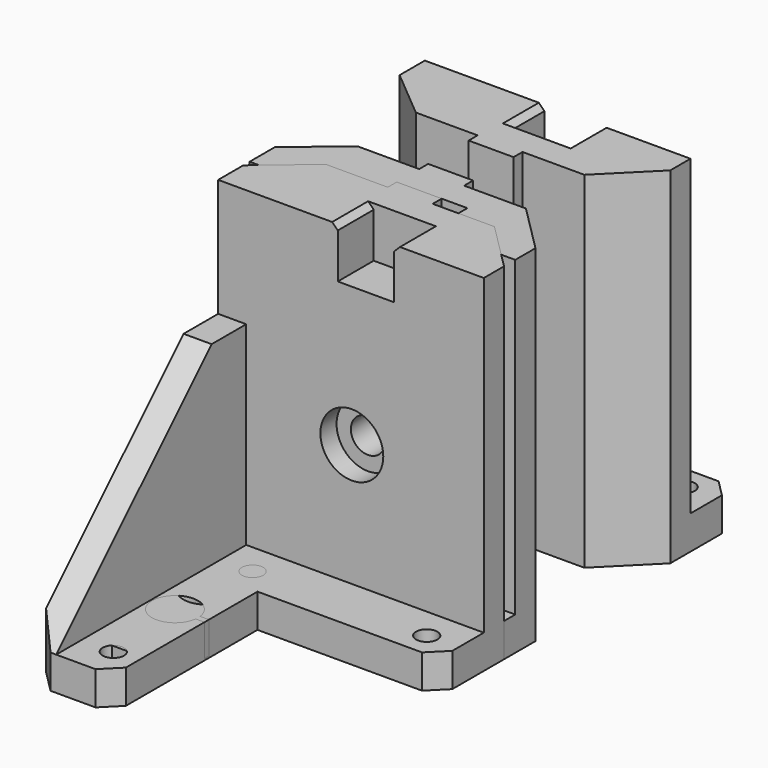
from build123d import *

# Parameters (mm, degrees)
CYLINDER008_R           = 1.9
CYLINDER008_DEPTH       = 20
CYLINDER009_R           = 1.9
CYLINDER009_DEPTH       = 20
CYLINDER007_R           = 1.9
CYLINDER007_DEPTH       = 20
CYLINDER010_R           = 5.6
CYLINDER010_DEPTH       = 20
CYLINDER011_R           = 3.05
CYLINDER011_DEPTH       = 20
CYLINDER006_R           = 4.1
CYLINDER006_DEPTH       = 20
CUBE020_W               = 10
CUBE020_H               = 1
CUBE020_DEPTH           = 10
CUBE021_W               = 30
CUBE021_H               = 15
CUBE021_DEPTH           = 63.6
CUBE021_PLACEMENT_ANGLE = 140
CUBE022_W               = 15
CUBE022_H               = 15
CUBE022_DEPTH           = 63.6
CUBE022_PLACEMENT_ANGLE = 45
CUBE023_W               = 10
CUBE023_H               = 10
CUBE023_DEPTH           = 63.6
CUBE023_PLACEMENT_ANGLE = 45
CUBE024_W               = 10
CUBE024_H               = 10
CUBE024_DEPTH           = 63.6
CUBE024_PLACEMENT_ANGLE = 45
CUBE025_W               = 20
CUBE025_H               = 10
CUBE025_DEPTH           = 63.6
CUBE025_PLACEMENT_ANGLE = 45
CUBE026_W               = 10
CUBE026_H               = 70
CUBE026_DEPTH           = 50
CUBE026_PLACEMENT_ANGLE = 45
CUBE027_W               = 10
CUBE027_H               = 20
CUBE027_DEPTH           = 30
CUBE028_W               = 5
CUBE028_H               = 30
CUBE028_DEPTH           = 5
CUBE028_PLACEMENT_ANGLE = 45
CUBE029_W               = 5
CUBE029_H               = 30
CUBE029_DEPTH           = 5
CUBE029_PLACEMENT_ANGLE = 45
CUBE019_W               = 50
CUBE019_H               = 50
CUBE019_DEPTH           = 10
CUBE016_W               = 47.3
CUBE016_H               = 13
CUBE016_DEPTH           = 61.6
CUBE017_W               = 5
CUBE017_H               = 55.3
CUBE017_DEPTH           = 40.6
CUBE018_W               = 8
CUBE018_H               = 3
CUBE018_DEPTH           = 61.6
CUBE015_W               = 47.3
CUBE015_H               = 55.3
CUBE015_DEPTH           = 6
CYLINDER002_R           = 1.9
CYLINDER002_DEPTH       = 20
CYLINDER003_R           = 1.9
CYLINDER003_DEPTH       = 20
CYLINDER001_R           = 1.9
CYLINDER001_DEPTH       = 20
CYLINDER004_R           = 5.6
CYLINDER004_DEPTH       = 20
CYLINDER005_R           = 3.05
CYLINDER005_DEPTH       = 20
CYLINDER_R              = 4.1
CYLINDER_DEPTH          = 20
CUBE005_W               = 10
CUBE005_H               = 1
CUBE005_DEPTH           = 10
CUBE006_W               = 30
CUBE006_H               = 15
CUBE006_DEPTH           = 63.6
CUBE006_PLACEMENT_ANGLE = 140
CUBE007_W               = 15
CUBE007_H               = 15
CUBE007_DEPTH           = 63.6
CUBE007_PLACEMENT_ANGLE = 45
CUBE008_W               = 10
CUBE008_H               = 10
CUBE008_DEPTH           = 63.6
CUBE008_PLACEMENT_ANGLE = 45
CUBE009_W               = 10
CUBE009_H               = 10
CUBE009_DEPTH           = 63.6
CUBE009_PLACEMENT_ANGLE = 45
CUBE010_W               = 20
CUBE010_H               = 10
CUBE010_DEPTH           = 63.6
CUBE010_PLACEMENT_ANGLE = 45
CUBE011_W               = 10
CUBE011_H               = 70
CUBE011_DEPTH           = 50
CUBE011_PLACEMENT_ANGLE = 45
CUBE012_W               = 10
CUBE012_H               = 20
CUBE012_DEPTH           = 30
CUBE013_W               = 5
CUBE013_H               = 30
CUBE013_DEPTH           = 5
CUBE013_PLACEMENT_ANGLE = 45
CUBE014_W               = 5
CUBE014_H               = 30
CUBE014_DEPTH           = 5
CUBE014_PLACEMENT_ANGLE = 45
CUBE004_W               = 50
CUBE004_H               = 50
CUBE004_DEPTH           = 10
CUBE001_W               = 47.3
CUBE001_H               = 13
CUBE001_DEPTH           = 61.6
CUBE002_W               = 5
CUBE002_H               = 55.3
CUBE002_DEPTH           = 40.6
CUBE003_W               = 8
CUBE003_H               = 3
CUBE003_DEPTH           = 61.6
CUBE_W                  = 47.3
CUBE_H                  = 55.3
CUBE_DEPTH              = 6
SKETCH_W                = 8
SKETCH_H                = 9
POCKET_DEPTH            = 2
CHAMFER_SIZE            = 1.9


with BuildPart() as cylinder008:
    # cylinder008 → cylinder008 (new body)
    with BuildSketch(Plane(origin=(31, 0, 0), x_dir=(1, 0, 0), z_dir=(0, 0, 1))):
        Circle(CYLINDER008_R)
    extrude(amount=CYLINDER008_DEPTH)


with BuildPart() as cylinder009:
    # cylinder009 → cylinder009 (new body)
    with BuildSketch(Plane(origin=(0, 31, 0), x_dir=(1, 0, 0), z_dir=(0, 0, 1))):
        Circle(CYLINDER009_R)
    extrude(amount=CYLINDER009_DEPTH)


with BuildPart() as matrix_union001:
    # cylinder007 → cylinder007 (new body)
    with BuildSketch(Plane.XY):
        Circle(CYLINDER007_R)
    extrude(amount=CYLINDER007_DEPTH)

    # Matrix_Union001: union cylinder008, cylinder009
    add(cylinder008.part)
    add(cylinder009.part)


with BuildPart() as matrix_union001_1:
    # Matrix_Union001 placement: moved
    add(matrix_union001.part.moved(Location((10.65, 18.65, -0.1))))


with BuildPart() as cylinder010:
    # cylinder010 → cylinder010 (new body)
    with BuildSketch(Plane(origin=(23.8, 9.4, 27.8), x_dir=(1, 0, 0), z_dir=(0, 1, 0))):
        Circle(CYLINDER010_R)
    extrude(amount=CYLINDER010_DEPTH)


with BuildPart() as cylinder011:
    # cylinder011 → cylinder011 (new body)
    with BuildSketch(Plane(origin=(23.8, -3, 27.8), x_dir=(1, 0, 0), z_dir=(0, 1, 0))):
        Circle(CYLINDER011_R)
    extrude(amount=CYLINDER011_DEPTH)


with BuildPart() as group005:
    # cylinder006 → cylinder006 (new body)
    with BuildSketch(Plane(origin=(9.35, 34.3, -0.1), x_dir=(1, 0, 0), z_dir=(0, 0, 1))):
        Circle(CYLINDER006_R)
    extrude(amount=CYLINDER006_DEPTH)

    # Group005: union Matrix_Union001, cylinder010, cylinder011
    add(matrix_union001_1.part)
    add(cylinder010.part)
    add(cylinder011.part)


with BuildPart() as cube020:
    # cube020 → cube020 (new body)
    with BuildSketch(Plane(origin=(7.5, 33.8, 0.3), x_dir=(1, 0, 0), z_dir=(0, 0, 1))):
        with Locations((5, 0.5)):
            Rectangle(CUBE020_W, CUBE020_H)
    extrude(amount=CUBE020_DEPTH)


with BuildPart() as cube021:
    # cube021 → cube021 (new body)
    with BuildSketch(Plane.XY):
        with Locations((15, 7.5)):
            Rectangle(CUBE021_W, CUBE021_H)
    extrude(amount=CUBE021_DEPTH)


with BuildPart() as cube021_1:
    # cube021 placement: moved
    add(cube021.part.moved(Location((8.8, 0, -0.1))).rotate(Axis((8.8, 0, -0.1), (0, 0, 1)), CUBE021_PLACEMENT_ANGLE))


with BuildPart() as cube022:
    # cube022 → cube022 (new body)
    with BuildSketch(Plane.XY):
        with Locations((7.5, 7.5)):
            Rectangle(CUBE022_W, CUBE022_H)
    extrude(amount=CUBE022_DEPTH)


with BuildPart() as cube022_1:
    # cube022 placement: moved
    add(cube022.part.moved(Location((38.8, 0, -0.1))).rotate(Axis((38.8, 0, -0.1), (0, 0, -1)), CUBE022_PLACEMENT_ANGLE))


with BuildPart() as cube023:
    # cube023 → cube023 (new body)
    with BuildSketch(Plane.XY):
        with Locations((5, 5)):
            Rectangle(CUBE023_W, CUBE023_H)
    extrude(amount=CUBE023_DEPTH)


with BuildPart() as cube023_1:
    # cube023 placement: moved
    add(cube023.part.moved(Location((48.3, 19, -0.1))).rotate(Axis((48.3, 19, -0.1), (0, 0, 1)), CUBE023_PLACEMENT_ANGLE))


with BuildPart() as cube024:
    # cube024 → cube024 (new body)
    with BuildSketch(Plane.XY):
        with Locations((5, 5)):
            Rectangle(CUBE024_W, CUBE024_H)
    extrude(amount=CUBE024_DEPTH)


with BuildPart() as cube024_1:
    # cube024 placement: moved
    add(cube024.part.moved(Location((15, 52.3, -0.1))).rotate(Axis((15, 52.3, -0.1), (0, 0, 1)), CUBE024_PLACEMENT_ANGLE))


with BuildPart() as cube025:
    # cube025 → cube025 (new body)
    with BuildSketch(Plane.XY):
        with Locations((10, 5)):
            Rectangle(CUBE025_W, CUBE025_H)
    extrude(amount=CUBE025_DEPTH)


with BuildPart() as cube025_1:
    # cube025 placement: moved
    add(cube025.part.moved(Location((-5, 46.3, -0.1))).rotate(Axis((-5, 46.3, -0.1), (0, 0, 1)), CUBE025_PLACEMENT_ANGLE))


with BuildPart() as cube026:
    # cube026 → cube026 (new body)
    with BuildSketch(Plane.XY):
        with Locations((5, 35)):
            Rectangle(CUBE026_W, CUBE026_H)
    extrude(amount=CUBE026_DEPTH)


with BuildPart() as cube026_1:
    # cube026 placement: moved
    add(cube026.part.moved(Location((-0.1, 55.3, 6))).rotate(Axis((-0.1, 55.3, 6), (1, 0, 0)), CUBE026_PLACEMENT_ANGLE))


with BuildPart() as cube027:
    # cube027 → cube027 (new body)
    with BuildSketch(Plane(origin=(21.3, 5, 52.6), x_dir=(1, 0, 0), z_dir=(0, 0, 1))):
        with Locations((5, 10)):
            Rectangle(CUBE027_W, CUBE027_H)
    extrude(amount=CUBE027_DEPTH)


with BuildPart() as cube028:
    # cube028 → cube028 (new body)
    with BuildSketch(Plane.XY):
        with Locations((2.5, 15)):
            Rectangle(CUBE028_W, CUBE028_H)
    extrude(amount=CUBE028_DEPTH)


with BuildPart() as cube028_1:
    # cube028 placement: moved
    add(cube028.part.moved(Location((26.3, 5, 62.6))).rotate(Axis((26.3, 5, 62.6), (0, 1, 0)), CUBE028_PLACEMENT_ANGLE))


with BuildPart() as cube029:
    # cube029 → cube029 (new body)
    with BuildSketch(Plane.XY):
        with Locations((2.5, 15)):
            Rectangle(CUBE029_W, CUBE029_H)
    extrude(amount=CUBE029_DEPTH)


with BuildPart() as cube029_1:
    # cube029 placement: moved
    add(cube029.part.moved(Location((19.3, 5, 62.6))).rotate(Axis((19.3, 5, 62.6), (0, 1, 0)), CUBE029_PLACEMENT_ANGLE))


with BuildPart() as union001:
    # cube019 → cube019 (new body)
    with BuildSketch(Plane(origin=(15, 23, -0.1), x_dir=(1, 0, 0), z_dir=(0, 0, 1))):
        with Locations((25, 25)):
            Rectangle(CUBE019_W, CUBE019_H)
    extrude(amount=CUBE019_DEPTH)

    # Group004: union cube020, cube021, cube022, cube023, cube024, cube025, cube026, cube027, cube028, cube029
    add(cube020.part)
    add(cube021_1.part)
    add(cube022_1.part)
    add(cube023_1.part)
    add(cube024_1.part)
    add(cube025_1.part)
    add(cube026_1.part)
    add(cube027.part)
    add(cube028_1.part)
    add(cube029_1.part)

    # union001: union Group005
    add(group005.part)


with BuildPart() as cube016:
    # cube016 → cube016 (new body)
    with BuildSketch(Plane.XY):
        with Locations((23.65, 6.5)):
            Rectangle(CUBE016_W, CUBE016_H)
    extrude(amount=CUBE016_DEPTH)


with BuildPart() as cube017:
    # cube017 → cube017 (new body)
    with BuildSketch(Plane.XY):
        with Locations((2.5, 27.65)):
            Rectangle(CUBE017_W, CUBE017_H)
    extrude(amount=CUBE017_DEPTH)


with BuildPart() as cube018:
    # cube018 → cube018 (new body)
    with BuildSketch(Plane(origin=(19.8, -2, 0), x_dir=(1, 0, 0), z_dir=(0, 0, 1))):
        with Locations((4, 1.5)):
            Rectangle(CUBE018_W, CUBE018_H)
    extrude(amount=CUBE018_DEPTH)


with BuildPart() as difference001:
    # cube015 → cube015 (new body)
    with BuildSketch(Plane.XY):
        with Locations((23.65, 27.65)):
            Rectangle(CUBE015_W, CUBE015_H)
    extrude(amount=CUBE015_DEPTH)

    # Group003: union cube016, cube017, cube018
    add(cube016.part)
    add(cube017.part)
    add(cube018.part)

    # difference001: cut union001
    add(union001.part, mode=Mode.SUBTRACT)


with BuildPart() as mirrored_difference001:
    # mirr_difference001: instance of difference001
    add(difference001.part.mirror(Plane(origin=(0, 0, 0), x_dir=(1, 0, 0), z_dir=(0, 1, 0))))


with BuildPart() as mirrored_difference001_1:
    # mirr_difference001 placement: moved
    add(mirrored_difference001.part.moved(Location((0, -13, 0))))


with BuildPart() as cylinder002:
    # cylinder002 → cylinder002 (new body)
    with BuildSketch(Plane(origin=(31, 0, 0), x_dir=(1, 0, 0), z_dir=(0, 0, 1))):
        Circle(CYLINDER002_R)
    extrude(amount=CYLINDER002_DEPTH)


with BuildPart() as cylinder003:
    # cylinder003 → cylinder003 (new body)
    with BuildSketch(Plane(origin=(0, 31, 0), x_dir=(1, 0, 0), z_dir=(0, 0, 1))):
        Circle(CYLINDER003_R)
    extrude(amount=CYLINDER003_DEPTH)


with BuildPart() as matrix_union:
    # cylinder001 → cylinder001 (new body)
    with BuildSketch(Plane.XY):
        Circle(CYLINDER001_R)
    extrude(amount=CYLINDER001_DEPTH)

    # Matrix_Union: union cylinder002, cylinder003
    add(cylinder002.part)
    add(cylinder003.part)


with BuildPart() as matrix_union_1:
    # Matrix_Union placement: moved
    add(matrix_union.part.moved(Location((10.65, 18.65, -0.1))))


with BuildPart() as cylinder004:
    # cylinder004 → cylinder004 (new body)
    with BuildSketch(Plane(origin=(23.8, 9.4, 27.8), x_dir=(1, 0, 0), z_dir=(0, 1, 0))):
        Circle(CYLINDER004_R)
    extrude(amount=CYLINDER004_DEPTH)


with BuildPart() as cylinder005:
    # cylinder005 → cylinder005 (new body)
    with BuildSketch(Plane(origin=(23.8, -3, 27.8), x_dir=(1, 0, 0), z_dir=(0, 1, 0))):
        Circle(CYLINDER005_R)
    extrude(amount=CYLINDER005_DEPTH)


with BuildPart() as group002:
    # cylinder → cylinder (new body)
    with BuildSketch(Plane(origin=(9.35, 34.3, -0.1), x_dir=(1, 0, 0), z_dir=(0, 0, 1))):
        Circle(CYLINDER_R)
    extrude(amount=CYLINDER_DEPTH)

    # Group002: union Matrix_Union, cylinder004, cylinder005
    add(matrix_union_1.part)
    add(cylinder004.part)
    add(cylinder005.part)


with BuildPart() as cube005:
    # cube005 → cube005 (new body)
    with BuildSketch(Plane(origin=(7.5, 33.8, 0.3), x_dir=(1, 0, 0), z_dir=(0, 0, 1))):
        with Locations((5, 0.5)):
            Rectangle(CUBE005_W, CUBE005_H)
    extrude(amount=CUBE005_DEPTH)


with BuildPart() as cube006:
    # cube006 → cube006 (new body)
    with BuildSketch(Plane.XY):
        with Locations((15, 7.5)):
            Rectangle(CUBE006_W, CUBE006_H)
    extrude(amount=CUBE006_DEPTH)


with BuildPart() as cube006_1:
    # cube006 placement: moved
    add(cube006.part.moved(Location((8.8, 0, -0.1))).rotate(Axis((8.8, 0, -0.1), (0, 0, 1)), CUBE006_PLACEMENT_ANGLE))


with BuildPart() as cube007:
    # cube007 → cube007 (new body)
    with BuildSketch(Plane.XY):
        with Locations((7.5, 7.5)):
            Rectangle(CUBE007_W, CUBE007_H)
    extrude(amount=CUBE007_DEPTH)


with BuildPart() as cube007_1:
    # cube007 placement: moved
    add(cube007.part.moved(Location((38.8, 0, -0.1))).rotate(Axis((38.8, 0, -0.1), (0, 0, -1)), CUBE007_PLACEMENT_ANGLE))


with BuildPart() as cube008:
    # cube008 → cube008 (new body)
    with BuildSketch(Plane.XY):
        with Locations((5, 5)):
            Rectangle(CUBE008_W, CUBE008_H)
    extrude(amount=CUBE008_DEPTH)


with BuildPart() as cube008_1:
    # cube008 placement: moved
    add(cube008.part.moved(Location((48.3, 19, -0.1))).rotate(Axis((48.3, 19, -0.1), (0, 0, 1)), CUBE008_PLACEMENT_ANGLE))


with BuildPart() as cube009:
    # cube009 → cube009 (new body)
    with BuildSketch(Plane.XY):
        with Locations((5, 5)):
            Rectangle(CUBE009_W, CUBE009_H)
    extrude(amount=CUBE009_DEPTH)


with BuildPart() as cube009_1:
    # cube009 placement: moved
    add(cube009.part.moved(Location((15, 52.3, -0.1))).rotate(Axis((15, 52.3, -0.1), (0, 0, 1)), CUBE009_PLACEMENT_ANGLE))


with BuildPart() as cube010:
    # cube010 → cube010 (new body)
    with BuildSketch(Plane.XY):
        with Locations((10, 5)):
            Rectangle(CUBE010_W, CUBE010_H)
    extrude(amount=CUBE010_DEPTH)


with BuildPart() as cube010_1:
    # cube010 placement: moved
    add(cube010.part.moved(Location((-5, 46.3, -0.1))).rotate(Axis((-5, 46.3, -0.1), (0, 0, 1)), CUBE010_PLACEMENT_ANGLE))


with BuildPart() as cube011:
    # cube011 → cube011 (new body)
    with BuildSketch(Plane.XY):
        with Locations((5, 35)):
            Rectangle(CUBE011_W, CUBE011_H)
    extrude(amount=CUBE011_DEPTH)


with BuildPart() as cube011_1:
    # cube011 placement: moved
    add(cube011.part.moved(Location((-0.1, 55.3, 6))).rotate(Axis((-0.1, 55.3, 6), (1, 0, 0)), CUBE011_PLACEMENT_ANGLE))


with BuildPart() as cube012:
    # cube012 → cube012 (new body)
    with BuildSketch(Plane(origin=(21.3, 5, 52.6), x_dir=(1, 0, 0), z_dir=(0, 0, 1))):
        with Locations((5, 10)):
            Rectangle(CUBE012_W, CUBE012_H)
    extrude(amount=CUBE012_DEPTH)


with BuildPart() as cube013:
    # cube013 → cube013 (new body)
    with BuildSketch(Plane.XY):
        with Locations((2.5, 15)):
            Rectangle(CUBE013_W, CUBE013_H)
    extrude(amount=CUBE013_DEPTH)


with BuildPart() as cube013_1:
    # cube013 placement: moved
    add(cube013.part.moved(Location((26.3, 5, 62.6))).rotate(Axis((26.3, 5, 62.6), (0, 1, 0)), CUBE013_PLACEMENT_ANGLE))


with BuildPart() as cube014:
    # cube014 → cube014 (new body)
    with BuildSketch(Plane.XY):
        with Locations((2.5, 15)):
            Rectangle(CUBE014_W, CUBE014_H)
    extrude(amount=CUBE014_DEPTH)


with BuildPart() as cube014_1:
    # cube014 placement: moved
    add(cube014.part.moved(Location((19.3, 5, 62.6))).rotate(Axis((19.3, 5, 62.6), (0, 1, 0)), CUBE014_PLACEMENT_ANGLE))


with BuildPart() as union:
    # cube004 → cube004 (new body)
    with BuildSketch(Plane(origin=(15, 23, -0.1), x_dir=(1, 0, 0), z_dir=(0, 0, 1))):
        with Locations((25, 25)):
            Rectangle(CUBE004_W, CUBE004_H)
    extrude(amount=CUBE004_DEPTH)

    # Group001: union cube005, cube006, cube007, cube008, cube009, cube010, cube011, cube012, cube013, cube014
    add(cube005.part)
    add(cube006_1.part)
    add(cube007_1.part)
    add(cube008_1.part)
    add(cube009_1.part)
    add(cube010_1.part)
    add(cube011_1.part)
    add(cube012.part)
    add(cube013_1.part)
    add(cube014_1.part)

    # union: union Group002
    add(group002.part)


with BuildPart() as cube001:
    # cube001 → cube001 (new body)
    with BuildSketch(Plane.XY):
        with Locations((23.65, 6.5)):
            Rectangle(CUBE001_W, CUBE001_H)
    extrude(amount=CUBE001_DEPTH)


with BuildPart() as cube002:
    # cube002 → cube002 (new body)
    with BuildSketch(Plane.XY):
        with Locations((2.5, 27.65)):
            Rectangle(CUBE002_W, CUBE002_H)
    extrude(amount=CUBE002_DEPTH)


with BuildPart() as cube003:
    # cube003 → cube003 (new body)
    with BuildSketch(Plane(origin=(19.8, -2, 0), x_dir=(1, 0, 0), z_dir=(0, 0, 1))):
        with Locations((4, 1.5)):
            Rectangle(CUBE003_W, CUBE003_H)
    extrude(amount=CUBE003_DEPTH)


with BuildPart() as difference:
    # cube → cube (new body)
    with BuildSketch(Plane.XY):
        with Locations((23.65, 27.65)):
            Rectangle(CUBE_W, CUBE_H)
    extrude(amount=CUBE_DEPTH)

    # Group: union cube001, cube002, cube003
    add(cube001.part)
    add(cube002.part)
    add(cube003.part)

    # difference: cut union
    add(union.part, mode=Mode.SUBTRACT)


with BuildPart() as group006:
    # Group006 base: copy of difference
    add(difference.part)

    # Group006: union mirrored difference001
    add(mirrored_difference001_1.part)


with BuildPart() as body:
    # Body base: copy of difference
    add(difference.part)

    # Sketch (on Face4 of BaseFeature) → Pocket (cut)
    with BuildSketch(Plane.XZ.offset(2)):
        with Locations((23.8, 27.8)):
            Rectangle(SKETCH_W, SKETCH_H)
    extrude(amount=-POCKET_DEPTH, mode=Mode.SUBTRACT)

    # Chamfer
    chamfer_edges = [body.edges().sort_by_distance(p)[0] for p in [
        (23.8, -2, 32.3),
    ]]
    chamfer(chamfer_edges, length=CHAMFER_SIZE)


with BuildPart() as part_mirroring:
    # Part__Mirroring: instance of Body
    add(body.part.mirror(Plane(origin=(0, 0, 0), x_dir=(1, 0, 0), z_dir=(0, 1, 0))))


with BuildPart() as part_mirroring_1:
    # Part__Mirroring placement: moved
    add(part_mirroring.part.moved(Location((0, -20, 0))))


solid = Compound([group006.part, part_mirroring_1.part])
